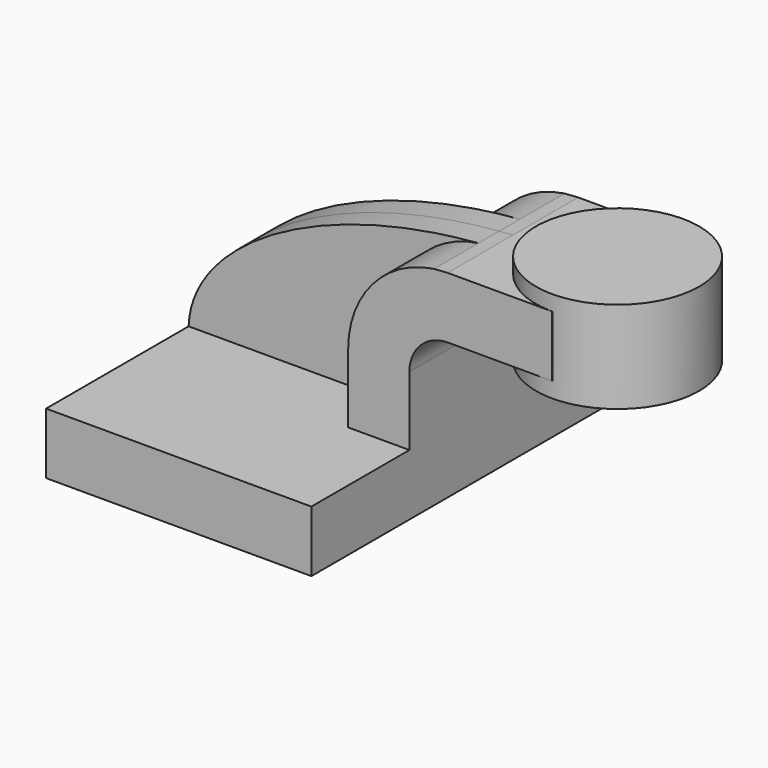
from build123d import *

# Parameters (mm, degrees)
F1_DEPTH = 63.5
F2_DEPTH = 8.0645
F0_W     = 25.4
F0_H     = 19.0499085962
F3_DEPTH = 25.4


with BuildPart() as f1:
    # F0 (on Front) → F1 (new body, symmetric)
    with BuildSketch(Plane.XZ):
        Polygon((41.275, -9.525), (41.275, 9.525), (22.225, 9.525), (-41.275, 9.525), (-41.275, -9.525), align=None)
    extrude(amount=F1_DEPTH, both=True)

    # F0 (on Front) → F2 (join, symmetric)
    with BuildSketch(Plane.XZ):
        with BuildLine():
            Line((-41.275, 9.525), (22.225, 9.525))
            Line((22.225, 9.525), (22.225, 30.9242955615))
            ThreePointArc((22.225, 30.9242955615), (29.8222899558, 51.2547383789), (48.8904739684, 61.6205513371))
            add(Edge.make_bspline(
                [(-41.275, 9.525), (-40.4256334692, 34.0380390405), (-2.1445775046, 57.4129863257), (48.8904739684, 61.6205513371)],
                knots=[0, 0, 0, 0, 105.0862776149, 105.0862776149, 105.0862776149, 105.0862776149], degree=3))
        make_face()
    extrude(amount=F2_DEPTH, both=True)

    # F0 (on Front) → F3 (join, symmetric)
    with BuildSketch(Plane.XZ):
        with BuildLine():
            Line((22.225, 9.525), (41.275, 9.525))
            Line((41.275, 9.525), (41.275, 30.9242955615))
            ThreePointArc((41.275, 30.9242955615), (44.7753388687, 39.3748611313), (53.2259044385, 42.8752))
            Line((53.2259044385, 42.8752), (60.325, 42.8752))
            Line((60.325, 42.8752), (60.325, 61.9251085962))
            Line((60.325, 61.9251085962), (53.1506236804, 61.9251085962))
            add(Edge.make_bspline(
                [(48.8904739684, 61.6205513371), (50.3009556164, 61.7368379492), (51.7211791725, 61.8384839041), (53.1506236804, 61.9251085962)],
                knots=[105.0862776149, 105.0862776149, 105.0862776149, 105.0862776149, 107.9906004628, 107.9906004628, 107.9906004628, 107.9906004628], degree=3))
            ThreePointArc((48.8904739684, 61.6205513371), (29.8222899558, 51.2547383789), (22.225, 30.9242955615))
            Line((22.225, 30.9242955615), (22.225, 9.525))
        make_face()
        with Locations((73.025, 52.4001542981)):
            Rectangle(F0_W, F0_H)
    extrude(amount=F3_DEPTH, both=True)


with BuildPart() as f4:
    # F0 (on Front) → F4 (revolve)
    with BuildSketch(Plane.XZ):
        Polygon((85.725, 61.9251085962), (85.725, 42.8752), (85.725, 38.1), (111.125, 38.1), (111.125, 66.675), (85.725, 66.675), align=None)
    revolve(axis=Axis((85.725, 0, 52.3875), (0, 0, 1)))


solid = Compound([f1.part, f4.part])
